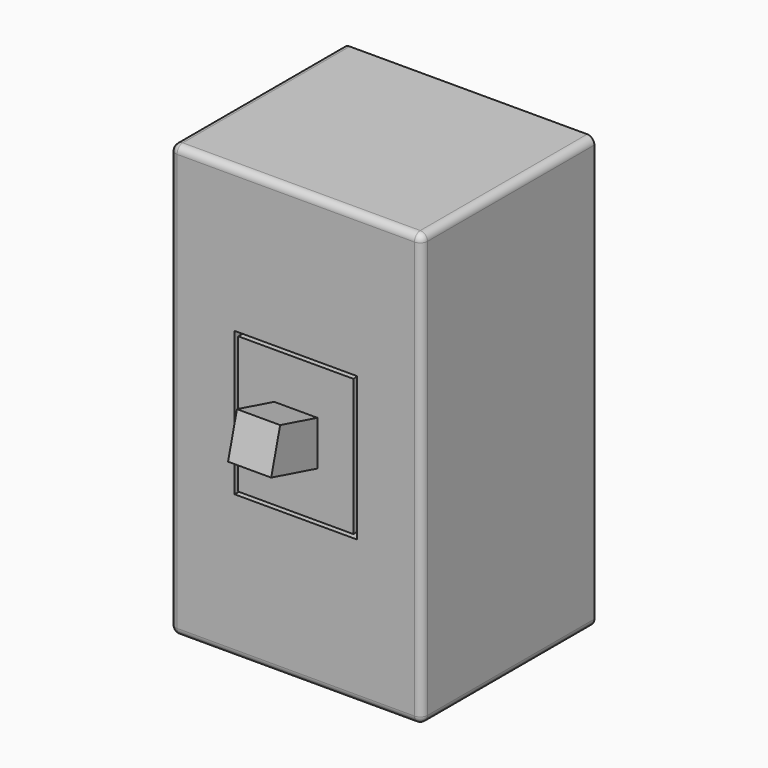
from build123d import *

# Parameters (mm, degrees)
F0_W     = 70
F0_H     = 120
F1_DEPTH = 60
F2_R     = 2
F3_W     = 34
F3_H     = 40
F3_W_2   = 32
F3_H_2   = 38
F4_DEPTH = 25
F7_W     = 12
F7_H     = 12
F8_DEPTH = 15


with BuildPart() as f1:
    # F0 (on Front) → F1 (new body)
    with BuildSketch(Plane.XZ):
        Rectangle(F0_W, F0_H)
    extrude(amount=F1_DEPTH)

    # F2
    f2_edges = [f1.edges().sort_by_distance(p)[0] for p in [
        (35, -30, 60),
        (35, -30, -60),
        (-35, -30, 60),
        (-35, -30, -60),
        (0, -60, -60),
        (35, -60, 0),
        (0, -60, 60),
        (-35, -60, 0),
    ]]
    fillet(f2_edges, radius=F2_R)

    # F3 (on face) → F4 (cut)
    with BuildSketch(Plane.XZ.offset(60)):
        Rectangle(F3_W, F3_H)
        Rectangle(F3_W_2, F3_H_2, mode=Mode.SUBTRACT)
    extrude(amount=-F4_DEPTH, mode=Mode.SUBTRACT)

    # F7 (on face) → F8 (join, symmetric)
    with BuildSketch(Plane(origin=(0, -55.980762, 15), x_dir=(-1, 0, 0), z_dir=(0, 0.965926, -0.258819))):
        with Locations((0, -15.529143)):
            Rectangle(F7_W, F7_H)
    extrude(amount=F8_DEPTH, both=True)


solid = f1.part
